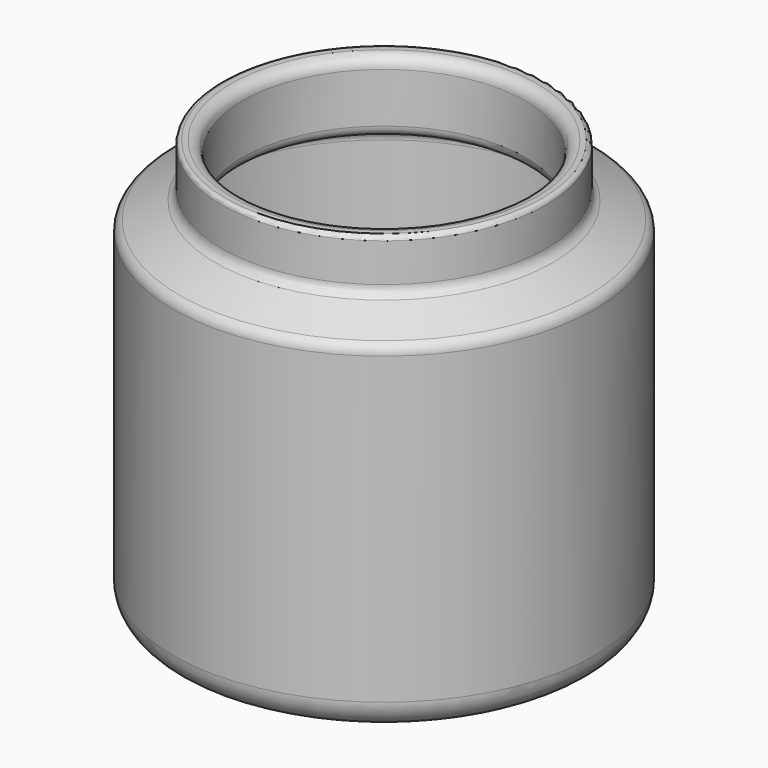
from build123d import *


with BuildPart() as f1:
    # F0 (on Front) → F1 (revolve)
    with BuildSketch(Plane.XZ):
        with BuildLine():
            Line((0, 4.841755), (0, 0))
            Line((0, 0), (19.203169, 0))
            ThreePointArc((19.203169, 0), (20.327056, -0.262177), (21.218929, -0.994584))
            Line((21.218929, -0.994584), (30.829937, -13.530681))
            ThreePointArc((30.829937, -13.530681), (31.72181, -14.263088), (32.845697, -14.525265))
            Line((32.845697, -14.525265), (40.683565, -14.525265))
            ThreePointArc((40.683565, -14.525265), (45.173693, -12.665393), (47.033565, -8.175265))
            Line((47.033565, -8.175265), (47.033565, 59.779817))
            ThreePointArc((47.033565, 59.779817), (46.642922, 61.133282), (45.591151, 62.07043))
            Line((45.591151, 62.07043), (37.634534, 65.882977))
            ThreePointArc((37.634534, 65.882977), (36.582763, 66.820125), (36.192119, 68.173589))
            Line((36.192119, 68.173589), (36.192119, 76.771161))
            ThreePointArc((36.192119, 76.771161), (35.917091, 77.435138), (35.253113, 77.710167))
            Line((35.253113, 77.710167), (34.132451, 77.710167))
            ThreePointArc((34.132451, 77.710167), (32.3364, 76.966218), (31.592451, 75.170167))
            Line((31.592451, 75.170167), (31.592451, 64.058097))
            ThreePointArc((31.592451, 64.058097), (31.983094, 62.704633), (33.034866, 61.767485))
            Line((33.034866, 61.767485), (41.770249, 57.581779))
            ThreePointArc((41.770249, 57.581779), (42.82202, 56.644631), (43.212663, 55.291166))
            Line((43.212663, 55.291166), (43.212663, -7.50122))
            ThreePointArc((43.212663, -7.50122), (42.468715, -9.297271), (40.672663, -10.04122))
            Line((40.672663, -10.04122), (34.33038, -10.04122))
            ThreePointArc((34.33038, -10.04122), (33.206493, -9.779043), (32.31462, -9.046636))
            Line((32.31462, -9.046636), (22.429367, 3.847171))
            ThreePointArc((22.429367, 3.847171), (21.537494, 4.579578), (20.413607, 4.841755))
            Line((20.413607, 4.841755), (0, 4.841755))
        make_face()
    revolve(axis=Axis((0, 0, 34.981679), (0, 0, 1)))


solid = f1.part
